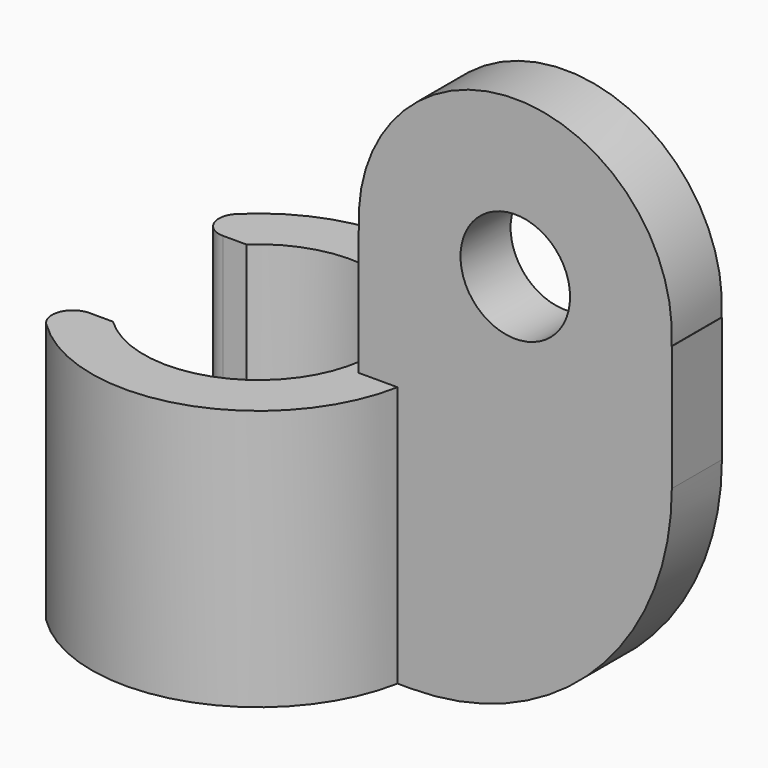
from build123d import *

# Parameters (mm, degrees)
CYLINDER003_R     = 5.25
CYLINDER003_DEPTH = 6
CYLINDER002_R     = 15
CYLINDER002_DEPTH = 6
BOX_W             = 30
BOX_H             = 6
BOX_DEPTH         = 37
FILLET001_R       = 25
BOX001_W          = 30
BOX001_H          = 16
BOX001_DEPTH      = 37
CYLINDER_R        = 11
CYLINDER_DEPTH    = 25
CYLINDER001_R     = 16
CYLINDER001_DEPTH = 25
FILLET_R          = 2


with BuildPart() as cilindro003:
    # Cylinder003 → Cylinder003 (new body)
    with BuildSketch(Plane(origin=(27, 3, 38), x_dir=(1, 0, 0), z_dir=(0, -1, 0))):
        Circle(CYLINDER003_R)
    extrude(amount=CYLINDER003_DEPTH)


with BuildPart() as cilindro002:
    # Cylinder002 → Cylinder002 (new body)
    with BuildSketch(Plane(origin=(27, 3, 38), x_dir=(1, 0, 0), z_dir=(0, -1, 0))):
        Circle(CYLINDER002_R)
    extrude(amount=CYLINDER002_DEPTH)


with BuildPart() as fillet001:
    # Box → Box (new body)
    with BuildSketch(Plane(origin=(12, -3, 0), x_dir=(1, 0, 0), z_dir=(0, 0, 1))):
        with Locations((15, 3)):
            Rectangle(BOX_W, BOX_H)
    extrude(amount=BOX_DEPTH)

    # Fusion: union Cilindro002
    add(cilindro002.part)

    # Cut001: cut Cilindro003
    add(cilindro003.part, mode=Mode.SUBTRACT)

    # Fillet001
    fillet001_edges = [fillet001.edges().sort_by_distance(p)[0] for p in [
        (42, 0, 0),
    ]]
    fillet(fillet001_edges, radius=FILLET001_R)


with BuildPart() as cubo001:
    # Box001 → Box001 (new body)
    with BuildSketch(Plane(origin=(-24, -8, 0), x_dir=(1, 0, 0), z_dir=(0, 0, 1))):
        with Locations((15, 8)):
            Rectangle(BOX001_W, BOX001_H)
    extrude(amount=BOX001_DEPTH)


with BuildPart() as cilindro:
    # Cylinder → Cylinder (new body)
    with BuildSketch(Plane.XY):
        Circle(CYLINDER_R)
    extrude(amount=CYLINDER_DEPTH)


with BuildPart() as fusion001:
    # Cylinder001 → Cylinder001 (new body)
    with BuildSketch(Plane.XY):
        Circle(CYLINDER001_R)
    extrude(amount=CYLINDER001_DEPTH)

    # Cut: cut Cilindro
    add(cilindro.part, mode=Mode.SUBTRACT)

    # Cut002: cut Cubo001
    add(cubo001.part, mode=Mode.SUBTRACT)

    # Fillet
    fillet_edges = [fusion001.edges().sort_by_distance(p)[0] for p in [
        (-13.856406, -8, 12.5),
        (-13.856406, 8, 12.5),
    ]]
    fillet(fillet_edges, radius=FILLET_R)

    # Fusion001: union Fillet001
    add(fillet001.part)


solid = fusion001.part
